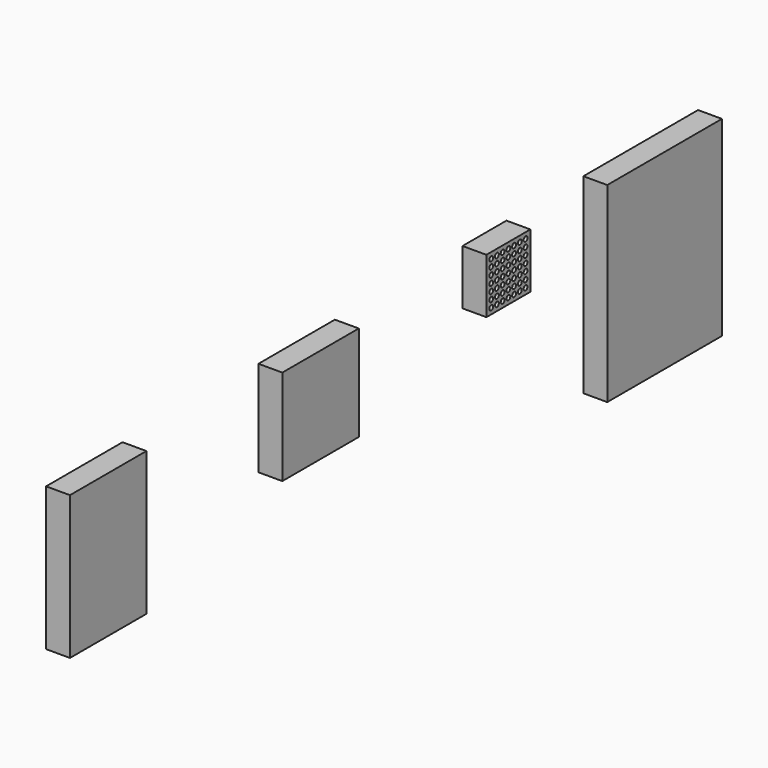
from build123d import *

# Parameters (mm, degrees)
F0_W     = 11.5
F0_H     = 11.5
F0_R     = 0.5
F0_W_2   = 30
F0_H_2   = 40
F0_W_3   = 20
F0_H_3   = 30
F0_H_4   = 20
F1_DEPTH = 5


with BuildPart() as f1:
    # F0 (on Right) → F1 (new body)
    with BuildSketch(Plane.YZ):
        with Locations((5.75, -5.75)):
            Rectangle(F0_W, F0_H)
        with Locations((1.25, -10.249999)):
            Circle(F0_R, mode=Mode.SUBTRACT)
        with Locations((2.75, -10.249999)):
            Circle(F0_R, mode=Mode.SUBTRACT)
        with Locations((4.25, -10.249999)):
            Circle(F0_R, mode=Mode.SUBTRACT)
        with Locations((5.75, -10.249999)):
            Circle(F0_R, mode=Mode.SUBTRACT)
        with Locations((7.25, -10.249999)):
            Circle(F0_R, mode=Mode.SUBTRACT)
        with Locations((8.75, -10.249999)):
            Circle(F0_R, mode=Mode.SUBTRACT)
        with Locations((10.25, -10.249999)):
            Circle(F0_R, mode=Mode.SUBTRACT)
        with Locations((1.25, -8.75)):
            Circle(F0_R, mode=Mode.SUBTRACT)
        with Locations((2.75, -8.75)):
            Circle(F0_R, mode=Mode.SUBTRACT)
        with Locations((4.25, -8.75)):
            Circle(F0_R, mode=Mode.SUBTRACT)
        with Locations((5.748865, -8.75)):
            Circle(F0_R, mode=Mode.SUBTRACT)
        with Locations((7.25, -8.75)):
            Circle(F0_R, mode=Mode.SUBTRACT)
        with Locations((8.75, -8.75)):
            Circle(F0_R, mode=Mode.SUBTRACT)
        with Locations((10.25, -8.75)):
            Circle(F0_R, mode=Mode.SUBTRACT)
        with Locations((1.25, -7.25)):
            Circle(F0_R, mode=Mode.SUBTRACT)
        with Locations((2.75, -7.25)):
            Circle(F0_R, mode=Mode.SUBTRACT)
        with Locations((4.25, -7.25)):
            Circle(F0_R, mode=Mode.SUBTRACT)
        with Locations((5.75, -7.25)):
            Circle(F0_R, mode=Mode.SUBTRACT)
        with Locations((7.25, -7.25)):
            Circle(F0_R, mode=Mode.SUBTRACT)
        with Locations((1.25, -5.75)):
            Circle(F0_R, mode=Mode.SUBTRACT)
        with Locations((2.75, -5.75)):
            Circle(F0_R, mode=Mode.SUBTRACT)
        with Locations((4.25, -5.75)):
            Circle(F0_R, mode=Mode.SUBTRACT)
        with Locations((5.75, -5.75)):
            Circle(F0_R, mode=Mode.SUBTRACT)
        with Locations((7.25, -5.75)):
            Circle(F0_R, mode=Mode.SUBTRACT)
        with Locations((8.75, -7.25)):
            Circle(F0_R, mode=Mode.SUBTRACT)
        with Locations((10.25, -7.25)):
            Circle(F0_R, mode=Mode.SUBTRACT)
        with Locations((8.75, -5.75)):
            Circle(F0_R, mode=Mode.SUBTRACT)
        with Locations((10.25, -5.75)):
            Circle(F0_R, mode=Mode.SUBTRACT)
        with Locations((1.25, -4.25)):
            Circle(F0_R, mode=Mode.SUBTRACT)
        with Locations((2.75, -4.25)):
            Circle(F0_R, mode=Mode.SUBTRACT)
        with Locations((4.25, -4.25)):
            Circle(F0_R, mode=Mode.SUBTRACT)
        with Locations((5.75, -4.25)):
            Circle(F0_R, mode=Mode.SUBTRACT)
        with Locations((7.25, -4.25)):
            Circle(F0_R, mode=Mode.SUBTRACT)
        with Locations((1.25, -2.75)):
            Circle(F0_R, mode=Mode.SUBTRACT)
        with Locations((2.75, -2.75)):
            Circle(F0_R, mode=Mode.SUBTRACT)
        with Locations((4.25, -2.75)):
            Circle(F0_R, mode=Mode.SUBTRACT)
        with Locations((5.748865, -2.75)):
            Circle(F0_R, mode=Mode.SUBTRACT)
        with Locations((7.25, -2.75)):
            Circle(F0_R, mode=Mode.SUBTRACT)
        with Locations((8.75, -4.25)):
            Circle(F0_R, mode=Mode.SUBTRACT)
        with Locations((10.25, -4.25)):
            Circle(F0_R, mode=Mode.SUBTRACT)
        with Locations((8.75, -2.75)):
            Circle(F0_R, mode=Mode.SUBTRACT)
        with Locations((10.25, -2.75)):
            Circle(F0_R, mode=Mode.SUBTRACT)
        with Locations((1.25, -1.250001)):
            Circle(F0_R, mode=Mode.SUBTRACT)
        with Locations((2.75, -1.250001)):
            Circle(F0_R, mode=Mode.SUBTRACT)
        with Locations((4.25, -1.250001)):
            Circle(F0_R, mode=Mode.SUBTRACT)
        with Locations((5.75, -1.250001)):
            Circle(F0_R, mode=Mode.SUBTRACT)
        with Locations((7.25, -1.250001)):
            Circle(F0_R, mode=Mode.SUBTRACT)
        with Locations((8.75, -1.250001)):
            Circle(F0_R, mode=Mode.SUBTRACT)
        with Locations((10.25, -1.250001)):
            Circle(F0_R, mode=Mode.SUBTRACT)
        with Locations((46.618495, -20)):
            Rectangle(F0_W_2, F0_H_2)
        with Locations((-98.95025, -15)):
            Rectangle(F0_W_3, F0_H_3)
        with Locations((-43.391993, -10)):
            Rectangle(F0_W_3, F0_H_4)
    extrude(amount=F1_DEPTH)


solid = f1.part
